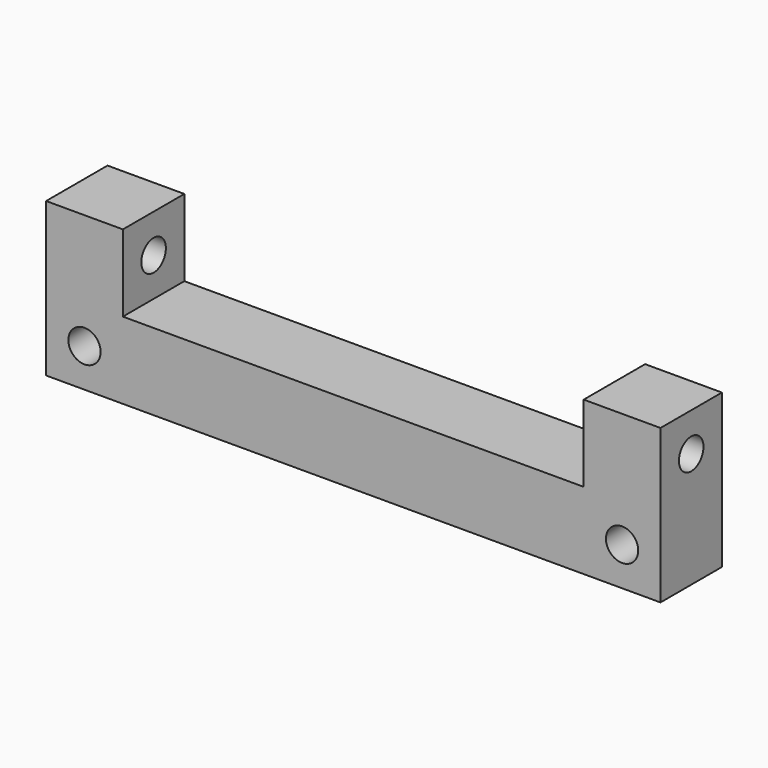
from build123d import *

# Parameters (mm, degrees)
SKETCH003_W     = 80
SKETCH003_H     = 10
PAD002_DEPTH    = 20
SKETCH004_W     = 60
SKETCH004_H     = 10
POCKET001_DEPTH = 10
SKETCH005_R     = 2
POCKET_DEPTH    = 80.001
SKETCH_R        = 2.1
POCKET002_DEPTH = 10


with BuildPart() as part:
    # Sketch003 → Pad002 (new body)
    with BuildSketch(Plane.XY):
        with Locations((40, 5)):
            Rectangle(SKETCH003_W, SKETCH003_H)
    extrude(amount=PAD002_DEPTH)

    # Sketch004 → Pocket001 (cut)
    with BuildSketch(Plane.XY.offset(20)):
        with Locations((40, 5)):
            Rectangle(SKETCH004_W, SKETCH004_H)
    extrude(amount=-POCKET001_DEPTH, mode=Mode.SUBTRACT)

    # Sketch005 → Pocket (cut, through all)
    with BuildSketch(Plane.YZ.offset(80)):
        with Locations((5, 15)):
            Circle(SKETCH005_R)
    extrude(amount=-POCKET_DEPTH, mode=Mode.SUBTRACT)

    # Sketch → Pocket002 (cut)
    with BuildSketch(Plane.XZ):
        with Locations((75, 5)):
            Circle(SKETCH_R)
        with Locations((5, 5)):
            Circle(SKETCH_R)
    extrude(amount=-POCKET002_DEPTH, mode=Mode.SUBTRACT)


solid = part.part
